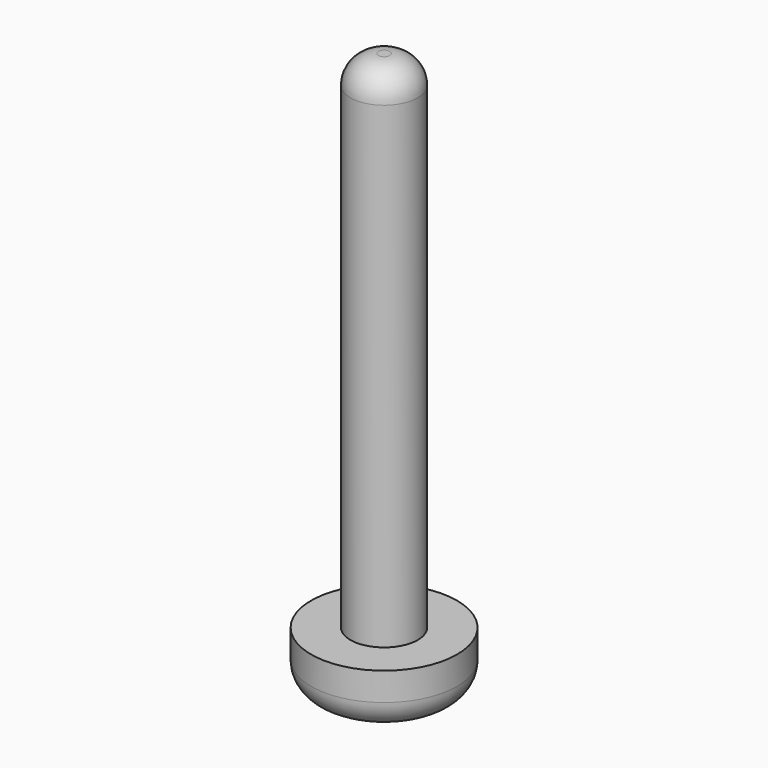
from build123d import *

# Parameters (mm, degrees)
F0_R     = 13
F1_DEPTH = 10
F2_R     = 6.002605
F3_DEPTH = 90
F4_R     = 5
F5_R     = 5


with BuildPart() as f1:
    # F0 (on Top) → F1 (new body)
    with BuildSketch(Plane.XY):
        Circle(F0_R)
    extrude(amount=F1_DEPTH)

    # F2 (on face) → F3 (join)
    with BuildSketch(Plane.XY.offset(10)):
        Circle(F2_R)
    extrude(amount=F3_DEPTH)

    # F4
    f4_edges = [f1.edges().sort_by_distance(p)[0] for p in [
        (-13, 0, 0),
    ]]
    fillet(f4_edges, radius=F4_R)

    # F5
    f5_edges = [f1.edges().sort_by_distance(p)[0] for p in [
        (-6.002605, 0, 100),
    ]]
    fillet(f5_edges, radius=F5_R)


solid = f1.part
